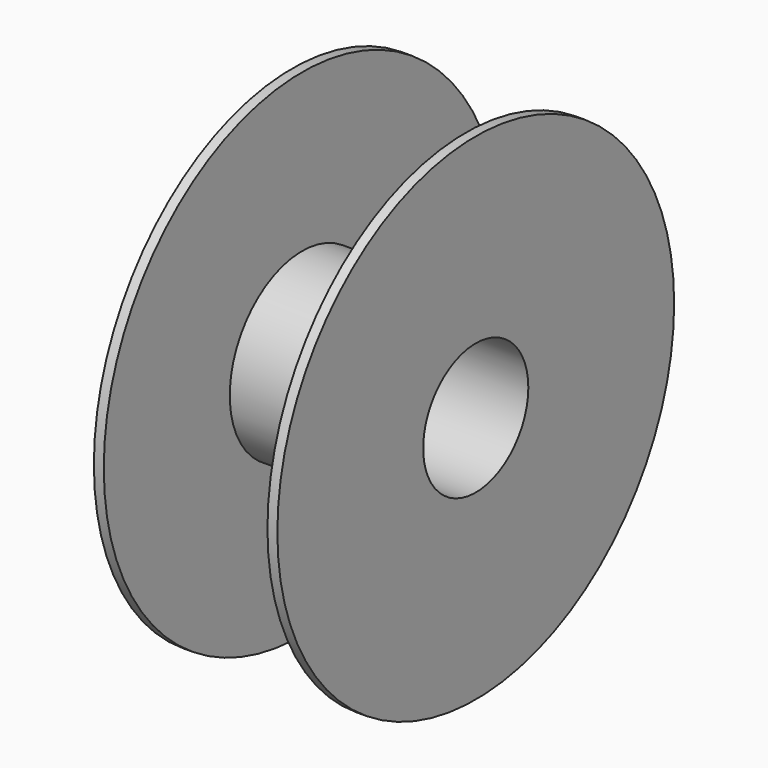
from build123d import *

# Parameters (mm, degrees)
F0_R          = 100
F0_R_2        = 26.5
F1_DEPTH      = 74
F3_R          = 100
F3_R_2        = 36.5
F4_DEPTH      = 33
F4_DEPTH_BACK = 33


with BuildPart() as f1:
    # F0 (on Right) → F1 (new body)
    with BuildSketch(Plane.YZ):
        Circle(F0_R)
        Circle(F0_R_2, mode=Mode.SUBTRACT)
    extrude(amount=F1_DEPTH)

    # F3 (on offset) → F4 (cut, two sides)
    with BuildSketch(Plane.YZ.offset(37)) as f4_sk:
        Circle(F3_R)
        Circle(F3_R_2, mode=Mode.SUBTRACT)
    extrude(amount=-F4_DEPTH, mode=Mode.SUBTRACT)
    extrude(f4_sk.sketch, amount=F4_DEPTH_BACK, mode=Mode.SUBTRACT)


solid = f1.part
